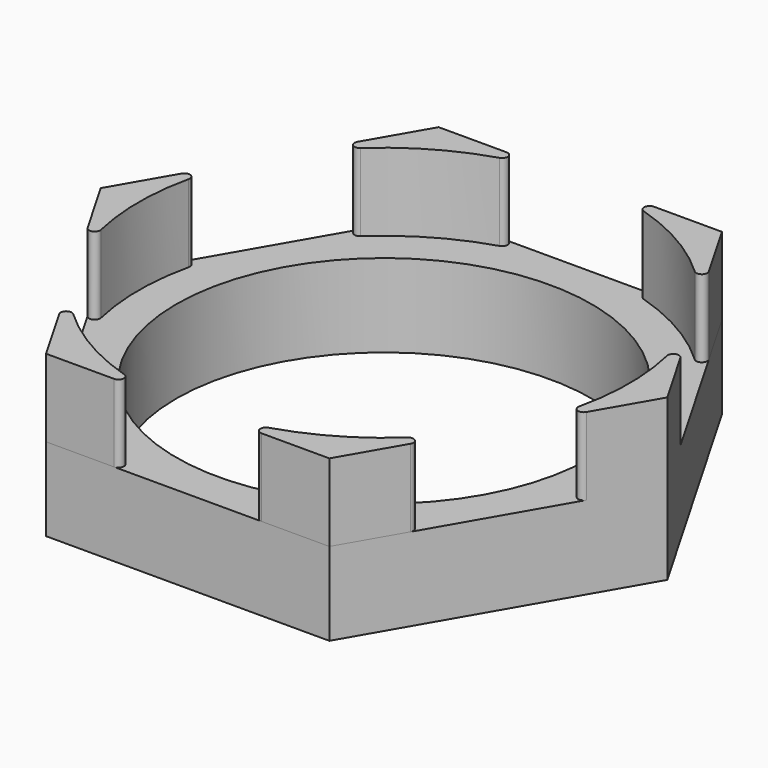
from build123d import *

# Parameters (mm, degrees)
F1_DEPTH = 3.81
F3_DEPTH = 3.556
F4_R     = 0.254
F6_COUNT = 6
F8_R     = 9.525
F9_DEPTH = 3.81


with BuildPart() as f1:
    # F0 (on Top) → F1 (new body)
    with BuildSketch(Plane.XY):
        Polygon((6.4951905284, 11.25), (-6.4951905284, 11.25), (-12.9903810568, 0), (-6.4951905284, -11.25), (6.4951905284, -11.25), (12.9903810568, 0), align=None)
    extrude(amount=F1_DEPTH)

    # F2 (on face) → F3 (join)
    with BuildSketch(Plane.XY.offset(3.81)):
        with BuildLine():
            Line((12.9903810568, 0), (9.7427857926, 5.625))
            ThreePointArc((9.7427857926, 5.625), (11.25, 0), (9.7427857926, -5.625))
            Line((9.7427857926, -5.625), (12.9903810568, 0))
        make_face()
    extrude(amount=F3_DEPTH)

    # F4
    f4_edges = [f1.edges().sort_by_distance(p)[0] for p in [
        (9.742786, -5.625, 5.588),
        (9.742786, 5.625, 5.588),
    ]]
    fillet(f4_edges, radius=F4_R)

    # F6: F1 ×6 about axis
    f6_axis = Axis((0, 0, 19.5707920939), (0, 0, 1))


with BuildPart() as f1_1:
    add(f1.part)
    for i in range(1, F6_COUNT):
        add(f1.part.rotate(f6_axis, i * 360 / F6_COUNT))

    # F8 (on face) → F9 (cut, through all)
    with BuildSketch(Plane.XY.offset(3.81)):
        Circle(F8_R)
    extrude(amount=-F9_DEPTH, mode=Mode.SUBTRACT)


solid = f1_1.part
